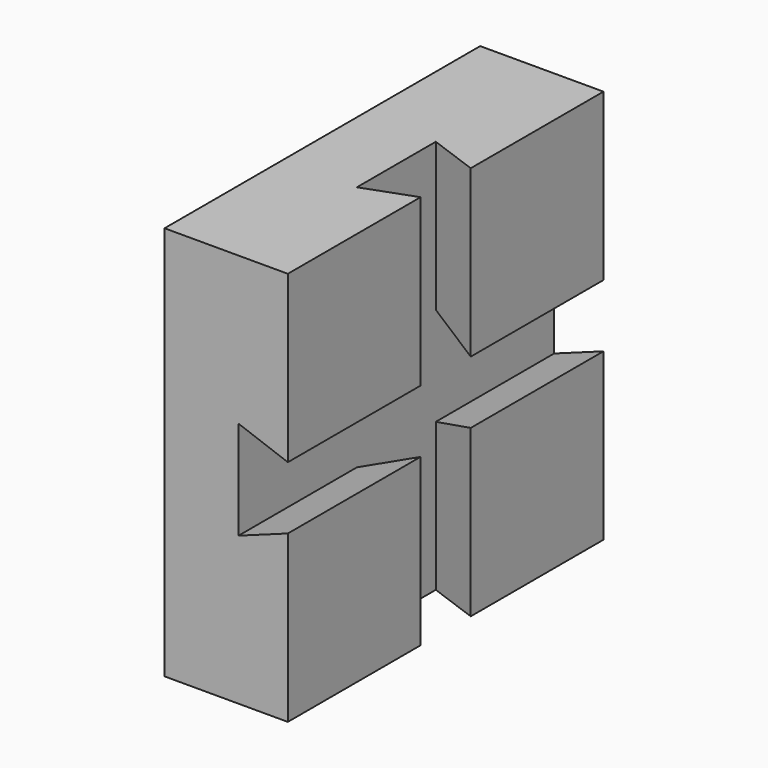
from build123d import *

# Parameters (mm, degrees)
F0_W     = 80
F0_H     = 80
F1_DEPTH = 25
F3_DEPTH = 80
F5_DEPTH = 80


with BuildPart() as f1:
    # F0 (on Right) → F1 (new body)
    with BuildSketch(Plane.YZ):
        with Locations((-40, 40)):
            Rectangle(F0_W, F0_H)
    extrude(amount=F1_DEPTH)

    # F2 (on face) → F3 (cut)
    with BuildSketch(Plane(origin=(0, 0, 0), x_dir=(1, 0, 0), z_dir=(0, 0, -1))):
        Polygon((25, 46.36), (15, 50), (15, 30), (25, 33.64), (25, 40), align=None)
    extrude(amount=-F3_DEPTH, mode=Mode.SUBTRACT)

    # F4 (on face) → F5 (cut)
    with BuildSketch(Plane.XZ.offset(80)):
        Polygon((15, 50), (15, 30), (25, 33.64), (25, 40), (25, 46.36), align=None)
    extrude(amount=-F5_DEPTH, mode=Mode.SUBTRACT)


solid = f1.part
